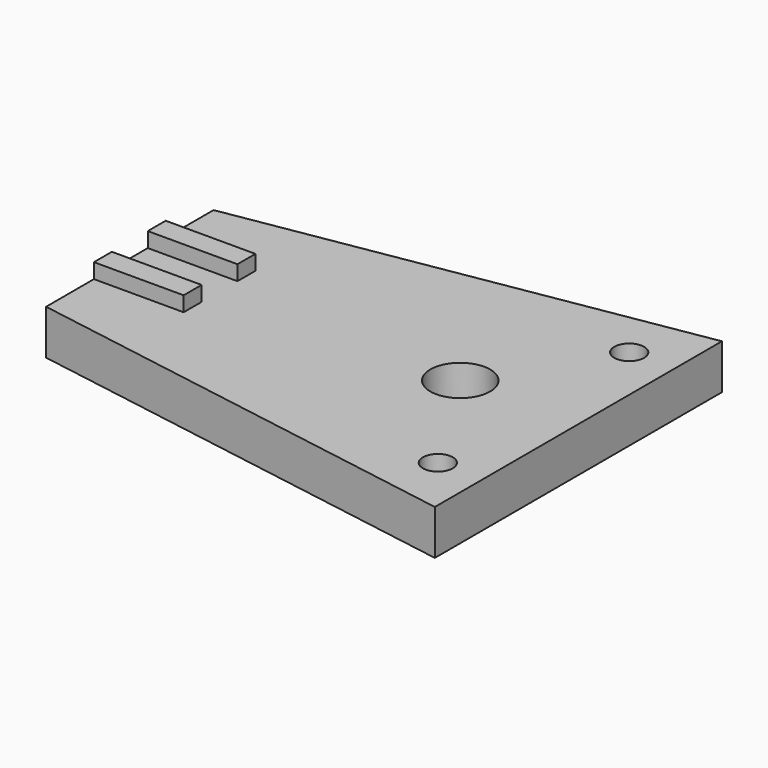
from build123d import *

# Parameters (mm, degrees)
F0_R     = 5
F1_DEPTH = 15
F2_W     = 30
F2_H     = 30
F3_DEPTH = 5
F4_W     = 30
F4_H     = 15
F5_DEPTH = 5
F6_R     = 10
F7_DEPTH = 15


with BuildPart() as f1:
    # F0 (on Top) → F1 (new body)
    with BuildSketch(Plane.XY):
        Polygon((-135, 0), (-135, -35), (15, -60), (15, 0), (15, 60), (-135, 35), align=None)
        with Locations((0, -40)):
            Circle(F0_R, mode=Mode.SUBTRACT)
        with Locations((0, 40)):
            Circle(F0_R, mode=Mode.SUBTRACT)
    extrude(amount=F1_DEPTH)

    # F2 (on face) → F3 (join)
    with BuildSketch(Plane.XY.offset(15)):
        with Locations((-120, 0)):
            Rectangle(F2_W, F2_H)
    extrude(amount=F3_DEPTH)

    # F4 (on face) → F5 (cut)
    with BuildSketch(Plane.XY.offset(20)):
        with Locations((-120, 0)):
            Rectangle(F4_W, F4_H)
    extrude(amount=-F5_DEPTH, mode=Mode.SUBTRACT)

    # F6 (on face) → F7 (cut)
    with BuildSketch(Plane.XY.offset(15)):
        with Locations((-24.507769, 0)):
            Circle(F6_R)
    extrude(amount=-F7_DEPTH, mode=Mode.SUBTRACT)


solid = f1.part
